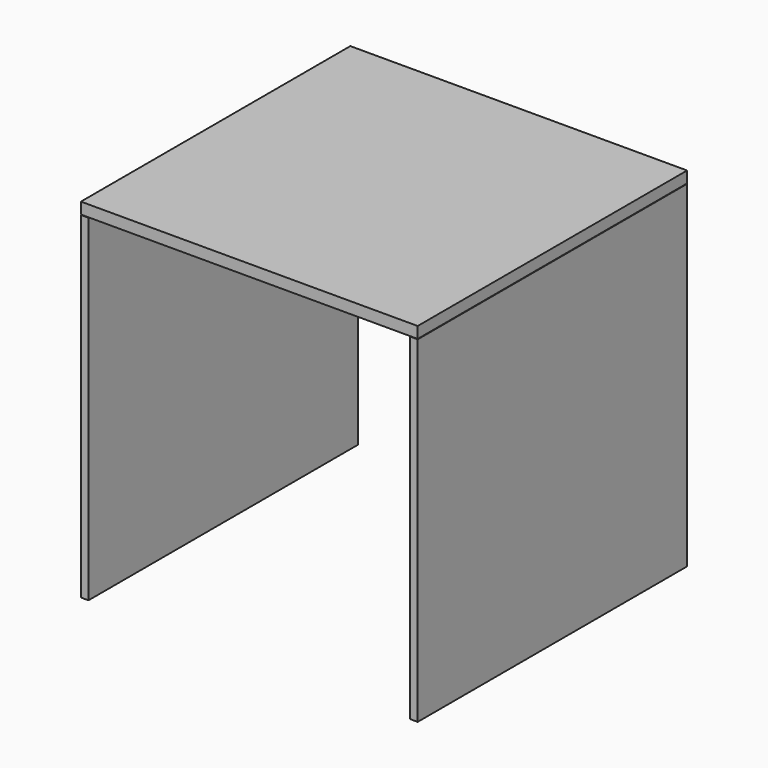
from build123d import *

# Parameters (mm, degrees)
F0_W     = 18
F0_H     = 800
F0_W_2   = 800
F0_H_2   = 27
F1_DEPTH = 800


with BuildPart() as f1:
    # F0 (on Front) → F1 (new body)
    with BuildSketch(Plane.XZ):
        with Locations((-391, 400)):
            Rectangle(F0_W, F0_H)
        with Locations((0, 814.5)):
            Rectangle(F0_W_2, F0_H_2)
        with Locations((391, 400)):
            Rectangle(F0_W, F0_H)
    extrude(amount=F1_DEPTH)


solid = f1.part
